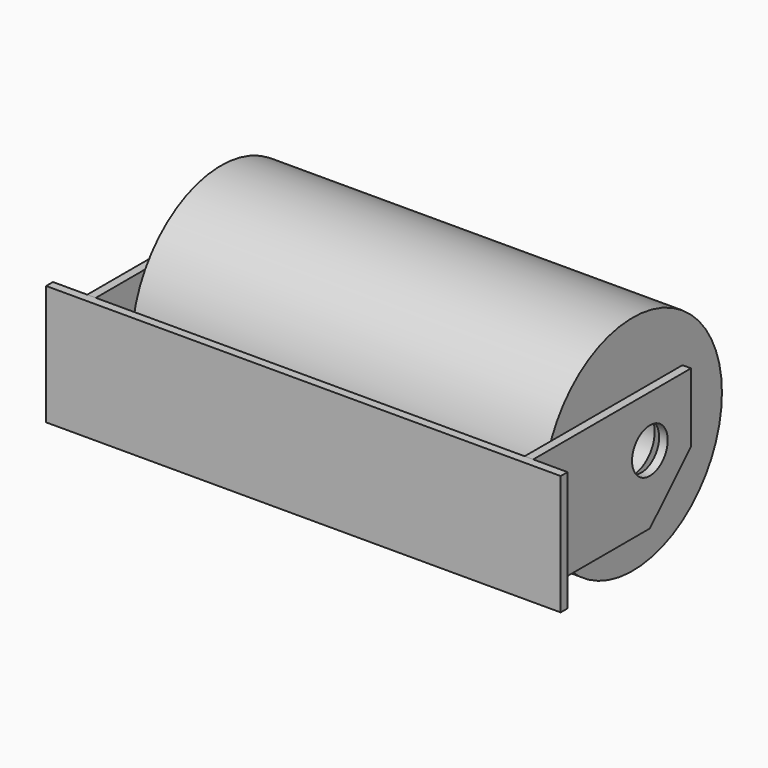
from build123d import *

# Parameters (mm, degrees)
F0_R     = 82.55
F0_R_2   = 20.32
F1_DEPTH = 152.4
F2_R     = 16.51
F3_DEPTH = 12.7
F4_R     = 20.32
F5_DEPTH = 12.7
F6_DEPTH = 6.35
F4_R_2   = 16.51
F7_DEPTH = 6.35
F8_W     = 381
F8_H     = 88.9
F9_DEPTH = 6.35


with BuildPart() as f1:
    # F0 (on Right) → F1 (new body, symmetric)
    with BuildSketch(Plane.YZ):
        Circle(F0_R)
        Circle(F0_R_2, mode=Mode.SUBTRACT)
    extrude(amount=F1_DEPTH, both=True)


with BuildPart() as f3:
    # F2 (on face) → F3 (new body)
    with BuildSketch(Plane.YZ.offset(152.4)):
        Polygon((38.1, 38.1), (-107.95, 38.1), (-107.95, -50.8), (0, -50.8), (38.1, -12.7), align=None)
        Circle(F2_R, mode=Mode.SUBTRACT)
    extrude(amount=F3_DEPTH)

    # F2 (on face) → F6 (cut)
    with BuildSketch(Plane.YZ.offset(152.4)):
        Polygon((38.1, 38.1), (-107.95, 38.1), (-107.95, -50.8), (0, -50.8), (38.1, -12.7), align=None)
        Circle(F2_R, mode=Mode.SUBTRACT)
    extrude(amount=F6_DEPTH, mode=Mode.SUBTRACT)


with BuildPart() as f5:
    # F4 (on face) → F5 (new body)
    with BuildSketch(Plane(origin=(-152.4, 0, 0), x_dir=(0, -1, 0), z_dir=(-1, 0, 0))):
        with BuildLine():
            Line((-38.1, -12.7), (0, -50.8))
            Line((0, -50.8), (65.068137, -50.8))
            ThreePointArc((65.068137, -50.8), (78.057278, -26.861941), (82.55, 0))
            ThreePointArc((82.55, 0), (80.186611, 19.611472), (73.231772, 38.1))
            Line((73.231772, 38.1), (-38.1, 38.1))
            Line((-38.1, 38.1), (-38.1, -12.7))
        make_face()
        Circle(F4_R, mode=Mode.SUBTRACT)
        with BuildLine():
            ThreePointArc((82.55, 0), (78.057278, -26.861941), (65.068137, -50.8))
            Line((65.068137, -50.8), (107.95, -50.8))
            Line((107.95, -50.8), (107.95, 38.1))
            Line((107.95, 38.1), (73.231772, 38.1))
            ThreePointArc((73.231772, 38.1), (80.186611, 19.611472), (82.55, 0))
        make_face()
    extrude(amount=F5_DEPTH)

    # F4 (on face) → F7 (cut)
    with BuildSketch(Plane(origin=(-152.4, 0, 0), x_dir=(0, -1, 0), z_dir=(-1, 0, 0))):
        Polygon((-38.1, -12.7), (0, -50.8), (107.95, -50.8), (107.95, 38.1), (-38.1, 38.1), align=None)
        Circle(F4_R_2, mode=Mode.SUBTRACT)
    extrude(amount=F7_DEPTH, mode=Mode.SUBTRACT)


with BuildPart() as f9:
    # F8 (on face) → F9 (new body)
    with BuildSketch(Plane.XZ.offset(107.95)):
        with Locations((0, -6.35)):
            Rectangle(F8_W, F8_H)
    extrude(amount=F9_DEPTH)


solid = Compound([f1.part, f3.part, f5.part, f9.part])
